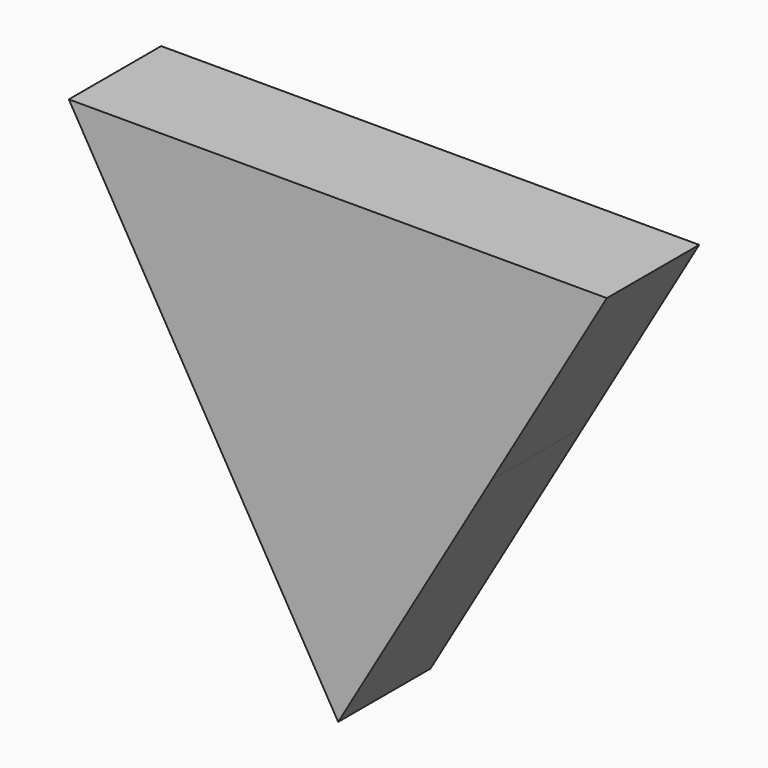
from build123d import *

# Parameters (mm, degrees)
F1_DEPTH = 25.4


with BuildPart() as f1:
    # F0 (on Front) → F1 (new body)
    with BuildSketch(Plane.XZ):
        Polygon((0, 43.401409), (-59.294544, 43.401409), (-33.906655, 0), (0, 0), align=None)
        Polygon((59.143532, 43.401409), (0, 43.401409), (0, 0), (15.39614, 0), (33.820301, 0), align=None)
        Polygon((0, 0), (-33.906655, 0), (0, -57.964511), align=None)
        Polygon((15.39614, 0), (0, 0), (0, -57.964511), (33.820301, 0), align=None)
    extrude(amount=F1_DEPTH)


solid = f1.part
